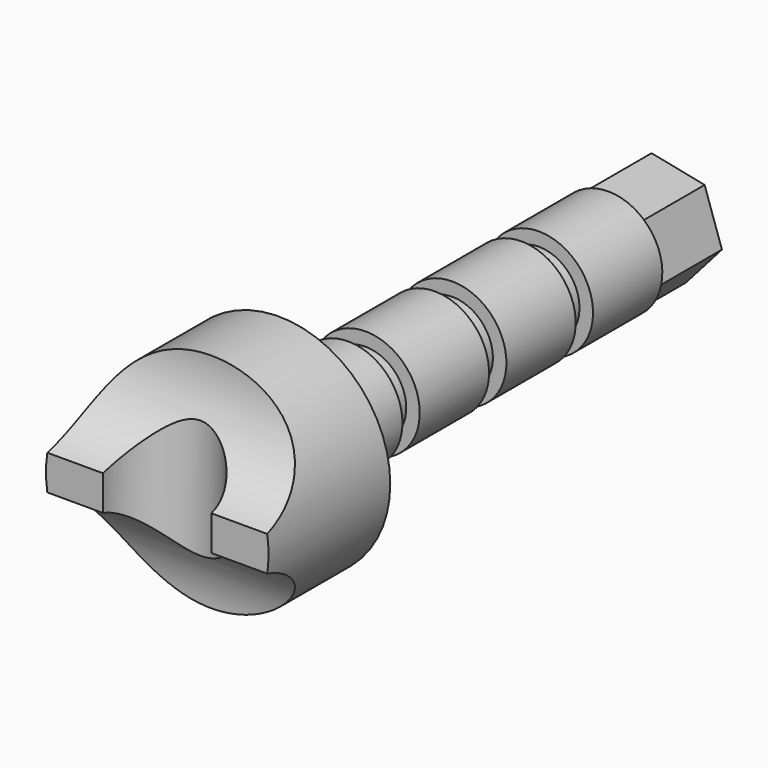
from build123d import *

# Parameters (mm, degrees)
F0_R      = 52.201743604
F1_DEPTH  = 300
F3_R      = 25.4
F4_DEPTH  = 152.4
F6_R      = 44.45
F7_DEPTH  = 152.4
F8_R      = 52.201743604
F8_R_2    = 25.4
F9_DEPTH  = 228.6
F13_R     = 31.75
F13_R_2   = 19.05
F15_R     = 31.75
F15_R_2   = 19.05
F14_R     = 31.75
F14_R_2   = 19.05
F16_DEPTH = 10.16
F18_DEPTH = 35.56


with BuildPart() as f1:
    # F0 (on Front) → F1 (new body)
    with BuildSketch(Plane.XZ):
        Circle(F0_R)
    extrude(amount=-F1_DEPTH)

    # F3 (on offset) → F4 (cut)
    with BuildSketch(Plane.XY.offset(63.5)):
        Circle(F3_R)
    extrude(amount=-F4_DEPTH, mode=Mode.SUBTRACT)

    # F6 (on offset) → F7 (cut)
    with BuildSketch(Plane.YZ.offset(63.5)):
        with Locations((-12.7, -50.8)):
            Circle(F6_R)
        with Locations((-12.7, 50.8)):
            Circle(F6_R)
    extrude(amount=-F7_DEPTH, mode=Mode.SUBTRACT)

    # F8 (on face) → F9 (cut)
    with BuildSketch(Plane(origin=(0, 300, 0), x_dir=(-1, 0, 0), z_dir=(0, 1, 0))):
        Circle(F8_R)
        Circle(F8_R_2, mode=Mode.SUBTRACT)
    extrude(amount=-F9_DEPTH, mode=Mode.SUBTRACT)

    # F13 (on offset) + F15 (on offset) + F14 (on offset) → F16 (cut)
    with BuildSketch(Plane(origin=(0, 122.2, 0), x_dir=(-1, 0, 0), z_dir=(0, 1, 0))):
        Circle(F13_R)
        Circle(F13_R_2, mode=Mode.SUBTRACT)
    with BuildSketch(Plane(origin=(0, 173, 0), x_dir=(-1, 0, 0), z_dir=(0, 1, 0))):
        Circle(F15_R)
        Circle(F15_R_2, mode=Mode.SUBTRACT)
    with BuildSketch(Plane(origin=(0, 223.8, 0), x_dir=(-1, 0, 0), z_dir=(0, 1, 0))):
        Circle(F14_R)
        Circle(F14_R_2, mode=Mode.SUBTRACT)
    extrude(amount=-F16_DEPTH, mode=Mode.SUBTRACT)

    # F17 (on face) → F18 (cut)
    with BuildSketch(Plane(origin=(0, 300, 0), x_dir=(-1, 0, 0), z_dir=(0, 1, 0))):
        with BuildLine():
            Line((-24.8980583787, -5.0246083398), (-16.8004676557, 19.050046891))
            ThreePointArc((-16.8004676557, 19.050046891), (-24.0746552308, 8.097590723), (-24.8980583787, -5.0246083398))
        make_face()
        with BuildLine():
            Line((-16.8004676557, 19.050046891), (8.097590723, 24.0746552308))
            ThreePointArc((8.097590723, 24.0746552308), (-5.0246083398, 24.8980583787), (-16.8004676557, 19.050046891))
        make_face()
        with BuildLine():
            Line((8.097590723, 24.0746552308), (24.8980583787, 5.0246083398))
            ThreePointArc((24.8980583787, 5.0246083398), (19.050046891, 16.8004676557), (8.097590723, 24.0746552308))
        make_face()
        with BuildLine():
            ThreePointArc((16.8004676557, -19.050046891), (23.1505062413, -10.4505531324), (25.4, 0))
            ThreePointArc((25.4, 0), (25.2742030816, 2.5248086244), (24.8980583787, 5.0246083398))
            Line((24.8980583787, 5.0246083398), (16.8004676557, -19.050046891))
        make_face()
        with BuildLine():
            ThreePointArc((-8.097590723, -24.0746552308), (5.0246083398, -24.8980583787), (16.8004676557, -19.050046891))
            Line((16.8004676557, -19.050046891), (-8.097590723, -24.0746552308))
        make_face()
        with BuildLine():
            ThreePointArc((-24.8980583787, -5.0246083398), (-19.050046891, -16.8004676557), (-8.097590723, -24.0746552308))
            Line((-8.097590723, -24.0746552308), (-24.8980583787, -5.0246083398))
        make_face()
    extrude(amount=-F18_DEPTH, mode=Mode.SUBTRACT)


solid = f1.part
